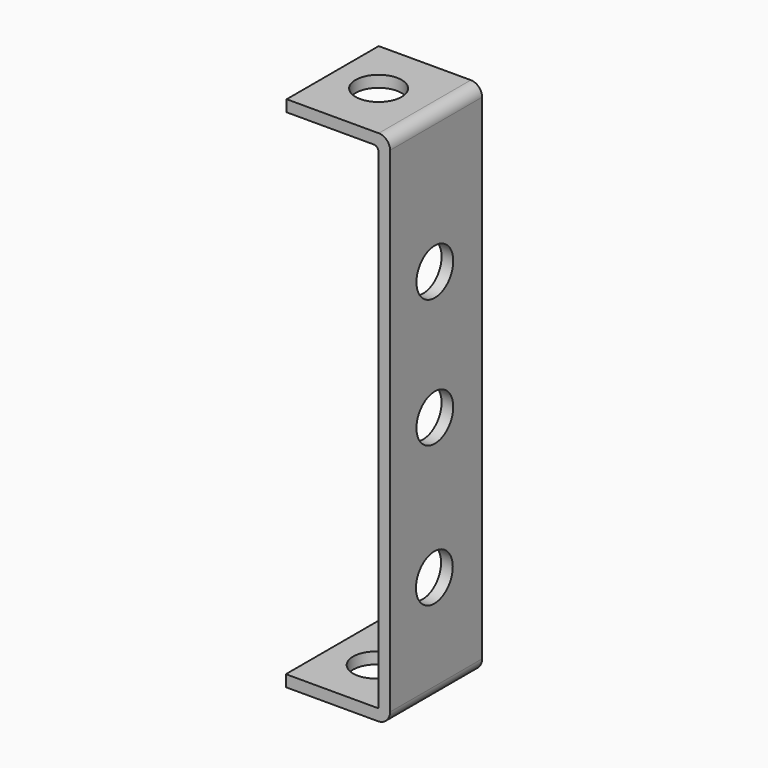
from build123d import *

# Parameters (mm, degrees)
CYLINDER030_R               = 2
CYLINDER030_DEPTH           = 10
CYLINDER030_PITCH_ANGLE     = 90
CYLINDER030_PLACEMENT_ANGLE = 7e-06
CYLINDER031_R               = 2
CYLINDER031_DEPTH           = 10
CYLINDER031_PITCH_ANGLE     = 90
CYLINDER031_PLACEMENT_ANGLE = 7e-06
CYLINDER026_R               = 2
CYLINDER026_DEPTH           = 2
CYLINDER026_ROLL_ANGLE      = -88.507054
CYLINDER026_PITCH_ANGLE     = -87.01751
CYLINDER026_PLACEMENT_ANGLE = -92.244015
CYLINDER028_R               = 2
CYLINDER028_DEPTH           = 2
CYLINDER028_PLACEMENT_ANGLE = 90.00001
CYLINDER029_R               = 2
CYLINDER029_DEPTH           = 2
CYLINDER029_ROLL_ANGLE      = 90
CYLINDER027_R               = 2
CYLINDER027_DEPTH           = 2
CYLINDER027_ROLL_ANGLE      = 90
CYLINDER025_R               = 2
CYLINDER025_DEPTH           = 2
CYLINDER025_ROLL_ANGLE      = -88.507054
CYLINDER025_PITCH_ANGLE     = -87.01751
CYLINDER025_PLACEMENT_ANGLE = -92.244015
PAD006_DEPTH                = 10
CUT026_PITCH_ANGLE          = 90
CUT026_PLACEMENT_ANGLE      = 90


with BuildPart() as cylinder030:
    # Cylinder030 → Cylinder030 (new body)
    with BuildSketch(Plane.XY):
        Circle(CYLINDER030_R)
    extrude(amount=CYLINDER030_DEPTH)


with BuildPart() as cylinder030_1:
    # Cylinder030 pitch: moved
    add(cylinder030.part.rotate(Axis((0, 0, 0), (0, 1, 0)), CYLINDER030_PITCH_ANGLE))


with BuildPart() as cylinder030_2:
    # Cylinder030 placement: moved
    add(cylinder030_1.part.moved(Location((15.49, 3.9, 4.87))).rotate(Axis((15.49, 3.9, 4.87), (0, 0, 1)), CYLINDER030_PLACEMENT_ANGLE))


with BuildPart() as cylinder031:
    # Cylinder031 → Cylinder031 (new body)
    with BuildSketch(Plane.XY):
        Circle(CYLINDER031_R)
    extrude(amount=CYLINDER031_DEPTH)


with BuildPart() as cylinder031_1:
    # Cylinder031 pitch: moved
    add(cylinder031.part.rotate(Axis((0, 0, 0), (0, 1, 0)), CYLINDER031_PITCH_ANGLE))


with BuildPart() as cylinder031_2:
    # Cylinder031 placement: moved
    add(cylinder031_1.part.moved(Location((-28.4147, 3.9, 5.14))).rotate(Axis((-28.4147, 3.9, 5.14), (0, 0, 1)), CYLINDER031_PLACEMENT_ANGLE))


with BuildPart() as cylinder026:
    # Cylinder026 → Cylinder026 (new body)
    with BuildSketch(Plane.XY):
        Circle(CYLINDER026_R)
    extrude(amount=CYLINDER026_DEPTH)


with BuildPart() as cylinder026_1:
    # Cylinder026 roll: moved
    add(cylinder026.part.rotate(Axis((0, 0, 0), (1, 0, 0)), CYLINDER026_ROLL_ANGLE))


with BuildPart() as cylinder026_2:
    # Cylinder026 pitch: moved
    add(cylinder026_1.part.rotate(Axis((0, 0, 0), (0, 1, 0)), CYLINDER026_PITCH_ANGLE))


with BuildPart() as cylinder026_3:
    # Cylinder026 placement: moved
    add(cylinder026_2.part.moved(Location((-26, 5.29, 4.9))).rotate(Axis((-26, 5.29, 4.9), (0, 0, 1)), CYLINDER026_PLACEMENT_ANGLE))


with BuildPart() as cylinder028:
    # Cylinder028 → Cylinder028 (new body)
    with BuildSketch(Plane.XY):
        Circle(CYLINDER028_R)
    extrude(amount=CYLINDER028_DEPTH)


with BuildPart() as cylinder028_1:
    # Cylinder028 placement: moved
    add(cylinder028.part.moved(Location((-11.1555, 0, 4.86401))).rotate(Axis((-11.1555, 0, 4.86401), (1, 0, 0)), CYLINDER028_PLACEMENT_ANGLE))


with BuildPart() as cylinder029:
    # Cylinder029 → Cylinder029 (new body)
    with BuildSketch(Plane.XY):
        Circle(CYLINDER029_R)
    extrude(amount=CYLINDER029_DEPTH)


with BuildPart() as cylinder029_1:
    # Cylinder029 roll: moved
    add(cylinder029.part.rotate(Axis((0, 0, 0), (1, 0, 0)), CYLINDER029_ROLL_ANGLE))


with BuildPart() as cylinder029_2:
    # Cylinder029 placement: moved
    add(cylinder029_1.part.moved(Location((0, 0, 4.86401))))


with BuildPart() as cylinder027:
    # Cylinder027 → Cylinder027 (new body)
    with BuildSketch(Plane.XY):
        Circle(CYLINDER027_R)
    extrude(amount=CYLINDER027_DEPTH)


with BuildPart() as cylinder027_1:
    # Cylinder027 roll: moved
    add(cylinder027.part.rotate(Axis((0, 0, 0), (1, 0, 0)), CYLINDER027_ROLL_ANGLE))


with BuildPart() as cylinder027_2:
    # Cylinder027 placement: moved
    add(cylinder027_1.part.moved(Location((12.2129, 0, 4.81114))))


with BuildPart() as cylinder025:
    # Cylinder025 → Cylinder025 (new body)
    with BuildSketch(Plane.XY):
        Circle(CYLINDER025_R)
    extrude(amount=CYLINDER025_DEPTH)


with BuildPart() as cylinder025_1:
    # Cylinder025 roll: moved
    add(cylinder025.part.rotate(Axis((0, 0, 0), (1, 0, 0)), CYLINDER025_ROLL_ANGLE))


with BuildPart() as cylinder025_2:
    # Cylinder025 pitch: moved
    add(cylinder025_1.part.rotate(Axis((0, 0, 0), (0, 1, 0)), CYLINDER025_PITCH_ANGLE))


with BuildPart() as cylinder025_3:
    # Cylinder025 placement: moved
    add(cylinder025_2.part.moved(Location((25, 5.38, 4.9))).rotate(Axis((25, 5.38, 4.9), (0, 0, 1)), CYLINDER025_PLACEMENT_ANGLE))


with BuildPart() as cut026:
    # Sketch007 → Pad006 (new body)
    with BuildSketch(Plane.XY):
        with BuildLine():
            Line((20.546084, -1.208272), (-22.415471, -1.208272))
            ThreePointArc((-23.400725, -0.223018), (-23.112151, -0.919698), (-22.415471, -1.208272))
            Line((-23.400725, 7.776982), (-23.400725, -0.223018))
            Line((-23.400725, 7.776982), (-22.400725, 7.776982))
            Line((-22.400725, 7.776982), (-22.400725, 0.197829))
            ThreePointArc((-22.400725, 0.197829), (-22.286166, -0.07874), (-22.009596, -0.193299))
            Line((-22.009596, -0.193299), (20.555186, -0.193299))
            ThreePointArc((20.555186, -0.193299), (20.586324, -0.180401), (20.599222, -0.149263))
            Line((20.599222, 7.844865), (20.599222, -0.149263))
            Line((21.599222, 7.844865), (20.599222, 7.844865))
            Line((21.599222, 7.844865), (21.599222, -0.155135))
            ThreePointArc((20.546084, -1.208272), (21.290765, -0.899815), (21.599222, -0.155135))
        make_face()
    extrude(amount=PAD006_DEPTH)

    # Cut005: cut Cylinder025
    add(cylinder025_3.part, mode=Mode.SUBTRACT)

    # Cut006: cut Cylinder027
    add(cylinder027_2.part, mode=Mode.SUBTRACT)

    # Cut007: cut Cylinder029
    add(cylinder029_2.part, mode=Mode.SUBTRACT)

    # Cut008: cut Cylinder028
    add(cylinder028_1.part, mode=Mode.SUBTRACT)

    # Cut009: cut Cylinder026
    add(cylinder026_3.part, mode=Mode.SUBTRACT)

    # Cut018: cut Cylinder031
    add(cylinder031_2.part, mode=Mode.SUBTRACT)

    # Cut026: cut Cylinder030
    add(cylinder030_2.part, mode=Mode.SUBTRACT)


with BuildPart() as cut026_1:
    # Cut026 pitch: moved
    add(cut026.part.rotate(Axis((0, 0, 0), (0, 1, 0)), CUT026_PITCH_ANGLE))


with BuildPart() as cut026_2:
    # Cut026 placement: moved
    add(cut026_1.part.moved(Location((66.5, 50.5, 26))).rotate(Axis((66.5, 50.5, 26), (0, 0, 1)), CUT026_PLACEMENT_ANGLE))


solid = cut026_2.part
